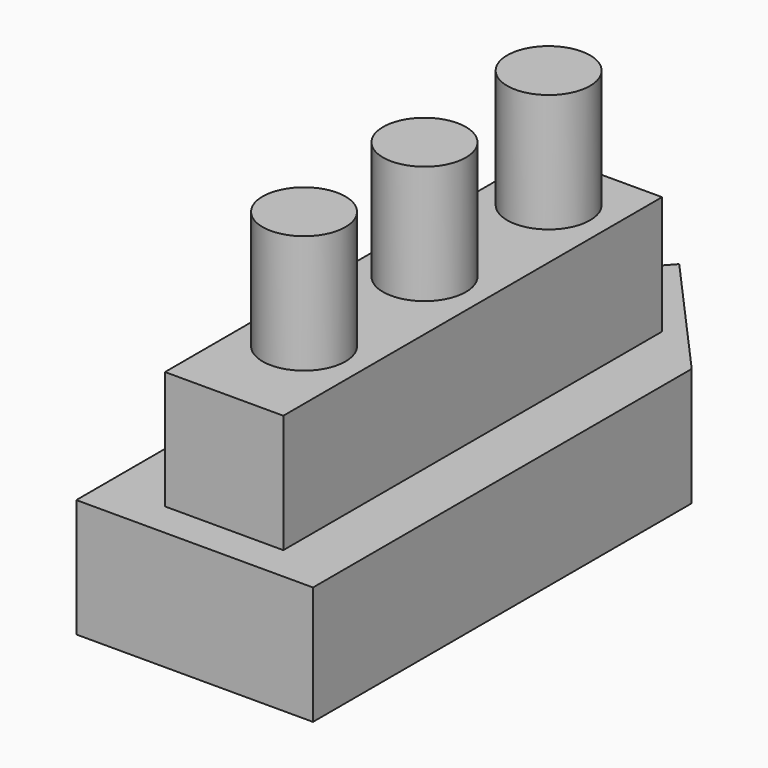
from build123d import *

# Parameters (mm, degrees)
F1_DEPTH = 25.4
F2_W     = 25.4
F2_H     = 101.6
F3_DEPTH = 25.4
F4_R     = 8.89
F5_DEPTH = 25.4


with BuildPart() as f1:
    # F0 (on Top) → F1 (new body)
    with BuildSketch(Plane.XY):
        Polygon((25.4, -64.316225), (25.4, 37.283775), (0, 65.681839), (-25.4, 37.283775), (-25.4, -64.316225), align=None)
    extrude(amount=F1_DEPTH)

    # F2 (on face) → F3 (join)
    with BuildSketch(Plane.XY.offset(25.4)):
        with Locations((0.357762, -6.04392)):
            Rectangle(F2_W, F2_H)
    extrude(amount=F3_DEPTH)

    # F4 (on face) → F5 (join)
    with BuildSketch(Plane.XY.offset(50.8)):
        with Locations((0, -34.968402)):
            Circle(F4_R)
        with Locations((0, -2.658716)):
            Circle(F4_R)
        with Locations((0, 30.651314)):
            Circle(F4_R)
    extrude(amount=F5_DEPTH)


solid = f1.part
